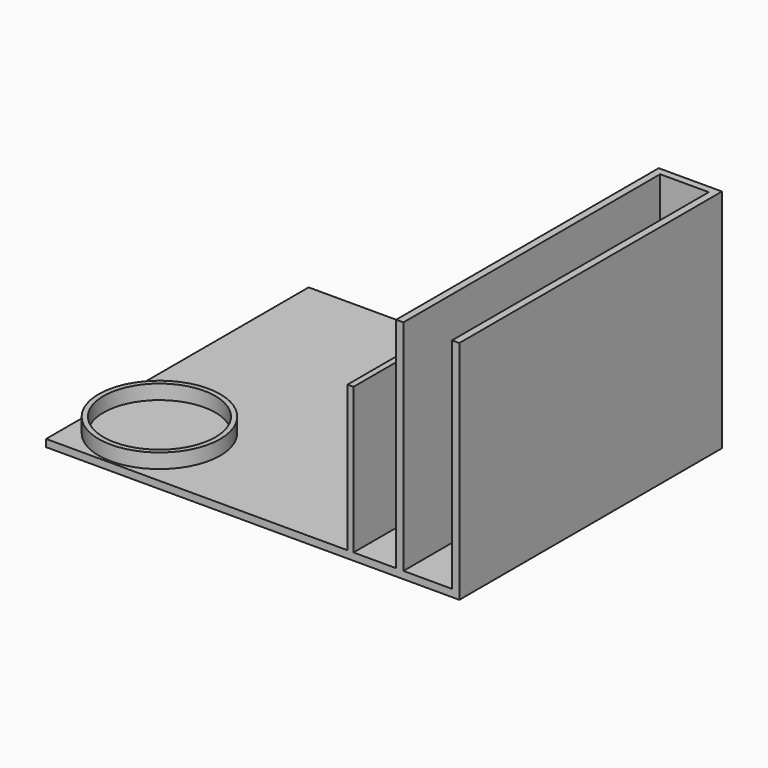
from build123d import *

# Parameters (mm, degrees)
SKETCH_W        = 170
SKETCH_H        = 135
PAD_DEPTH       = 3
SKETCH001_W     = 26
SKETCH001_H     = 135
PAD001_DEPTH    = 90
SKETCH004_W     = 20
SKETCH004_H     = 136.715439
POCKET_DEPTH    = 90
SKETCH006_W     = 20
SKETCH006_H     = 57.5
PAD002_DEPTH    = 60
SKETCH007_W     = 17.5
SKETCH007_H     = 54.5
POCKET001_DEPTH = 60
SKETCH008_R     = 25
PAD003_DEPTH    = 6
SKETCH009_R     = 23
POCKET002_DEPTH = 6


with BuildPart() as part:
    # Sketch → Pad (new body)
    with BuildSketch(Plane.XY):
        Rectangle(SKETCH_W, SKETCH_H)
    extrude(amount=PAD_DEPTH)

    # Sketch001 (on Face6 of Pad) → Pad001 (join)
    with BuildSketch(Plane.XY.offset(3)):
        with Locations((72, 0)):
            Rectangle(SKETCH001_W, SKETCH001_H)
    extrude(amount=PAD001_DEPTH)

    # Sketch004 (on Face10 of Pad001) → Pocket (cut)
    with BuildSketch(Plane.XY.offset(93)):
        with Locations((71.988623, -3.85772)):
            Rectangle(SKETCH004_W, SKETCH004_H)
    extrude(amount=-POCKET_DEPTH, mode=Mode.SUBTRACT)

    # Sketch006 (on Face5 of Pocket) → Pad002 (join)
    with BuildSketch(Plane.XY.offset(3)):
        with Locations((49, -38.75)):
            Rectangle(SKETCH006_W, SKETCH006_H)
    extrude(amount=PAD002_DEPTH)

    # Sketch007 (on Face17 of Pad002) → Pocket001 (cut)
    with BuildSketch(Plane.XY.offset(63)):
        with Locations((50.223179, -40.25)):
            Rectangle(SKETCH007_W, SKETCH007_H)
    extrude(amount=-POCKET001_DEPTH, mode=Mode.SUBTRACT)

    # Sketch008 (on Face5 of Pocket001) → Pad003 (join)
    with BuildSketch(Plane.XY.offset(3)):
        with Locations((-59.057144, -41.630726)):
            Circle(SKETCH008_R)
    extrude(amount=PAD003_DEPTH)

    # Sketch009 (on Face21 of Pad003) → Pocket002 (cut)
    with BuildSketch(Plane.XY.offset(9)):
        with Locations((-59.057144, -41.630726)):
            Circle(SKETCH009_R)
    extrude(amount=-POCKET002_DEPTH, mode=Mode.SUBTRACT)


solid = part.part
